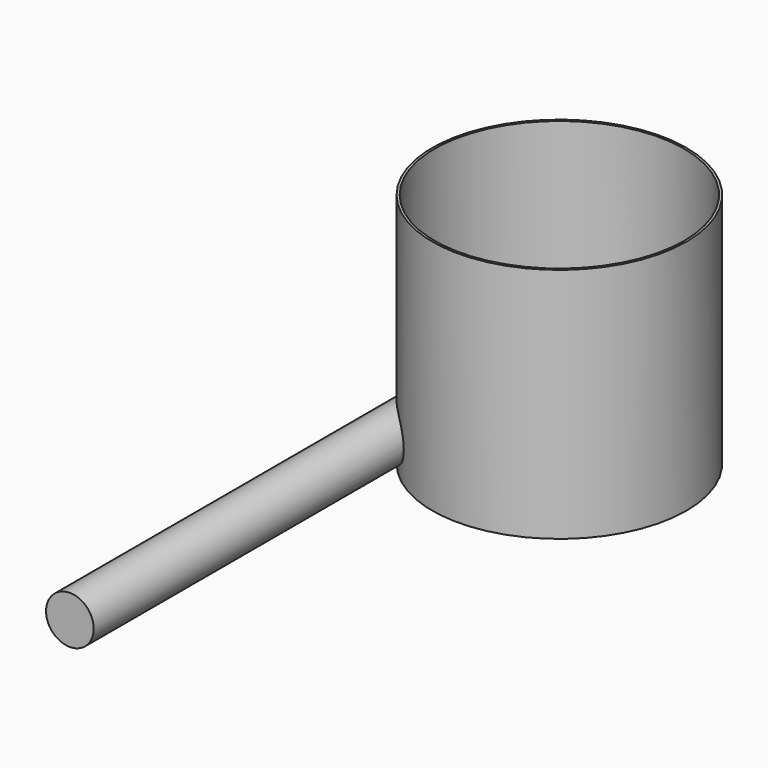
from build123d import *

# Parameters (mm, degrees)
F0_R          = 800
F1_DEPTH      = 1490
F2_R          = 785
F3_DEPTH      = 1462
F4_R          = 150
F5_DEPTH      = 3100
F5_DEPTH_BACK = 940


with BuildPart() as f1:
    # F0 (on Top) → F1 (new body)
    with BuildSketch(Plane.XY):
        Circle(F0_R)
    extrude(amount=F1_DEPTH)

    # F2 (on face) → F3 (cut)
    with BuildSketch(Plane.XY.offset(1490)):
        Circle(F2_R)
    extrude(amount=-F3_DEPTH, mode=Mode.SUBTRACT)

    # F4 (on Front) → F5 (join, two sides)
    with BuildSketch(Plane.XZ) as f5_sk:
        with Locations((-600, 200)):
            Circle(F4_R)
    extrude(amount=F5_DEPTH)
    extrude(f5_sk.sketch, amount=-F5_DEPTH_BACK)


solid = f1.part
